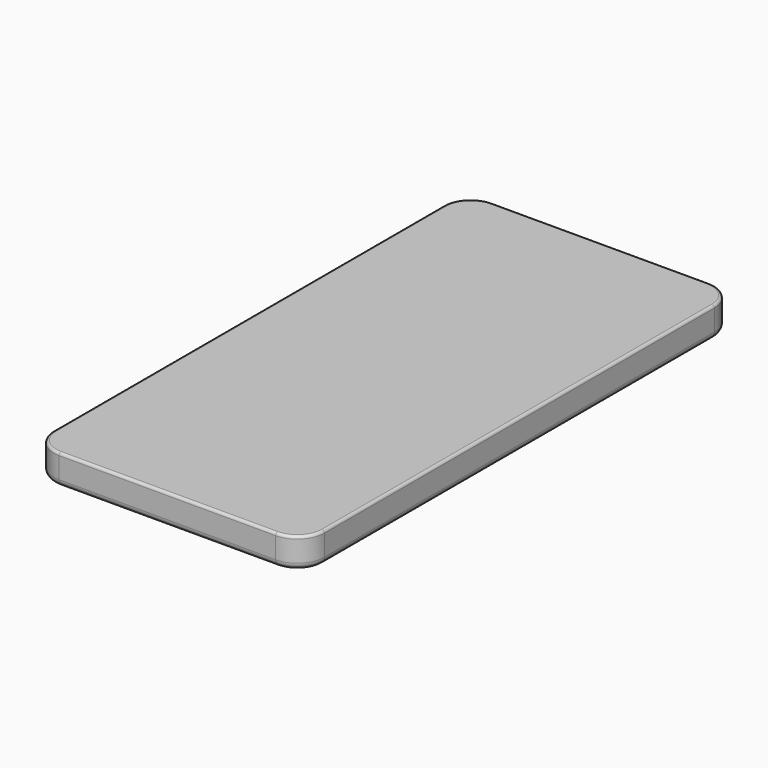
from build123d import *

# Parameters (mm, degrees)
F1_DEPTH = 5.6
F2_R     = 1.207107
F3_R     = 0.482843


with BuildPart() as f1:
    # F0 (on Top) → F1 (new body)
    with BuildSketch(Plane.XY):
        with BuildLine():
            Line((20, 50), (-20, 50))
            ThreePointArc((-20, 50), (-23.535534, 48.535534), (-25, 45))
            Line((-25, 45), (-25, -45))
            ThreePointArc((-25, -45), (-23.535534, -48.535534), (-20, -50))
            Line((-20, -50), (20, -50))
            ThreePointArc((20, -50), (23.535534, -48.535534), (25, -45))
            Line((25, -45), (25, 45))
            ThreePointArc((25, 45), (23.535534, 48.535534), (20, 50))
        make_face()
    extrude(amount=F1_DEPTH)

    # F2
    f2_edges = [f1.edges().sort_by_distance(p)[0] for p in [
        (-25, 0, 0),
    ]]
    fillet(f2_edges, radius=F2_R)

    # F3
    f3_edges = [f1.edges().sort_by_distance(p)[0] for p in [
        (25, 0, 5.6),
    ]]
    fillet(f3_edges, radius=F3_R)


solid = f1.part
